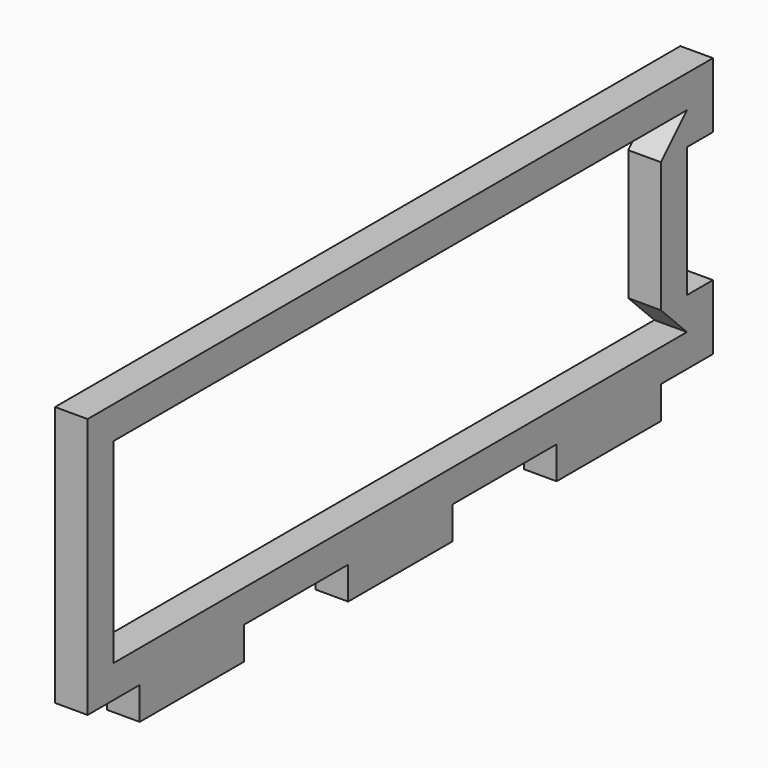
from build123d import *

# Parameters (mm, degrees)
F1_DEPTH = 3.175


with BuildPart() as f1:
    # F0 (on Right) → F1 (new body)
    with BuildSketch(Plane.YZ):
        Polygon((-12.7, 0), (0, 0), (0, 3.175), (6.35, 3.175), (6.35, 9.525), (3.184586, 9.525), (3.184586, 22.225), (6.35, 22.225), (6.35, 28.575), (-69.85, 28.575), (-69.85, 25.4), (-69.85, 3.175), (-63.5, 3.175), (-63.5, 0), (-50.8, 0), (-50.8, 3.175), (-38.1, 3.175), (-38.1, 0), (-25.4, 0), (-25.4, 3.175), (-12.7, 3.175), align=None)
        Polygon((-66.675, 6.35), (-66.675, 25.4), (3.184586, 25.4), (0, 22.225), (0, 9.525), (3.184586, 6.35), align=None, mode=Mode.SUBTRACT)
    extrude(amount=F1_DEPTH)


solid = f1.part
